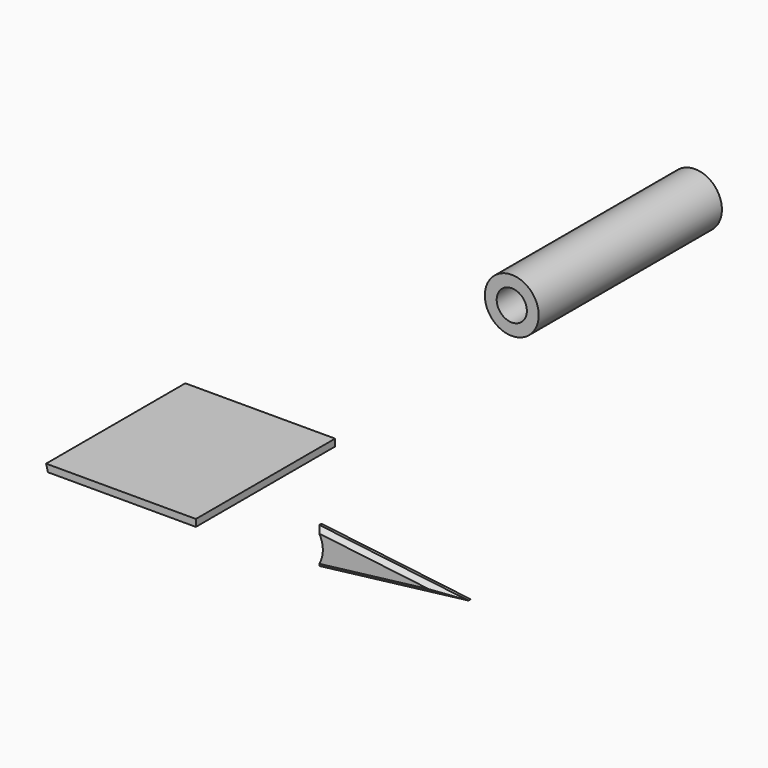
from build123d import *

# Parameters (mm, degrees)
F1_DEPTH  = 82.042
F2_R      = 12.7
F3_DEPTH  = 25.4
F5_DEPTH  = 3.302
F6_SIZE   = 2.032
F3_FACE_R = 12.7
F7_DEPTH  = 6.35
F9_R      = 12.7
F10_DEPTH = 76.2
F11_R     = 7.112
F12_DEPTH = 76.2


with BuildPart() as f1:
    # F0 (on Front) → F1 (new body)
    with BuildSketch(Plane.XZ):
        Polygon((-54.764774, 45.911669), (-53.880005, 42.609669), (15.847226, 42.609669), (15.847226, 45.911669), align=None)
    extrude(amount=F1_DEPTH)


with BuildPart() as f3:
    # F2 (on Front) → F3 (new body)
    with BuildSketch(Plane.XZ):
        with Locations((-40.873222, 11.620818)):
            Circle(F2_R)
        with BuildLine():
            ThreePointArc((-36.123694, 10.046018), (-45.877022, 11.620818), (-36.123694, 13.195618))
            Line((-36.123694, 13.195618), (-34.193022, 13.195618))
            Line((-34.193022, 13.195618), (-34.193022, 11.620818))
            Line((-34.193022, 11.620818), (-34.193022, 10.046018))
            Line((-34.193022, 10.046018), (-36.123694, 10.046018))
        make_face(mode=Mode.SUBTRACT)
    extrude(amount=F3_DEPTH)

    # F3_face (on face) → F7 (join)
    with BuildSketch(Plane(origin=(-40.94931, 0, 11.620818), x_dir=(1, 0, 0), z_dir=(0, 1, 0))):
        with Locations((0.076088, 0)):
            Circle(F3_FACE_R)
        with BuildLine():
            ThreePointArc((4.825616, -1.5748), (-4.927712, 0), (4.825616, 1.5748))
            Line((4.825616, 1.5748), (6.756288, 1.5748))
            Line((6.756288, 1.5748), (6.756288, -1.5748))
            Line((6.756288, -1.5748), (4.825616, -1.5748))
        make_face(mode=Mode.SUBTRACT)
    extrude(amount=F7_DEPTH)


with BuildPart() as f5:
    # F4 (on Front) → F5 (new body)
    with BuildSketch(Plane.XZ):
        with BuildLine():
            ThreePointArc((9.427986, 8.509), (12.7, 0), (9.427986, -8.509))
            Line((9.427986, -8.509), (79.756, 0))
            Line((79.756, 0), (9.427986, 8.509))
        make_face()
    extrude(amount=F5_DEPTH)

    # F6
    f6_edges = [f5.edges().sort_by_distance(p)[0] for p in [
        (44.591993, -3.302, 4.2545),
        (44.591993, -3.302, -4.2545),
    ]]
    chamfer(f6_edges, length=F6_SIZE)


with BuildPart() as f3_1:
    # F8: moved
    add(f3.part.moved(Location((0, 276.606, 0))))

    # F9 (on face) → F10 (join)
    with BuildSketch(Plane.XZ.offset(-251.206)):
        with Locations((-40.873222, 11.620818)):
            Circle(F9_R)
    extrude(amount=F10_DEPTH)

    # F11 (on face) → F12 (cut)
    with BuildSketch(Plane.XZ.offset(-175.006)):
        with Locations((-40.873222, 11.620818)):
            Circle(F11_R)
    extrude(amount=-F12_DEPTH, mode=Mode.SUBTRACT)


solid = Compound([f1.part, f5.part, f3_1.part])
